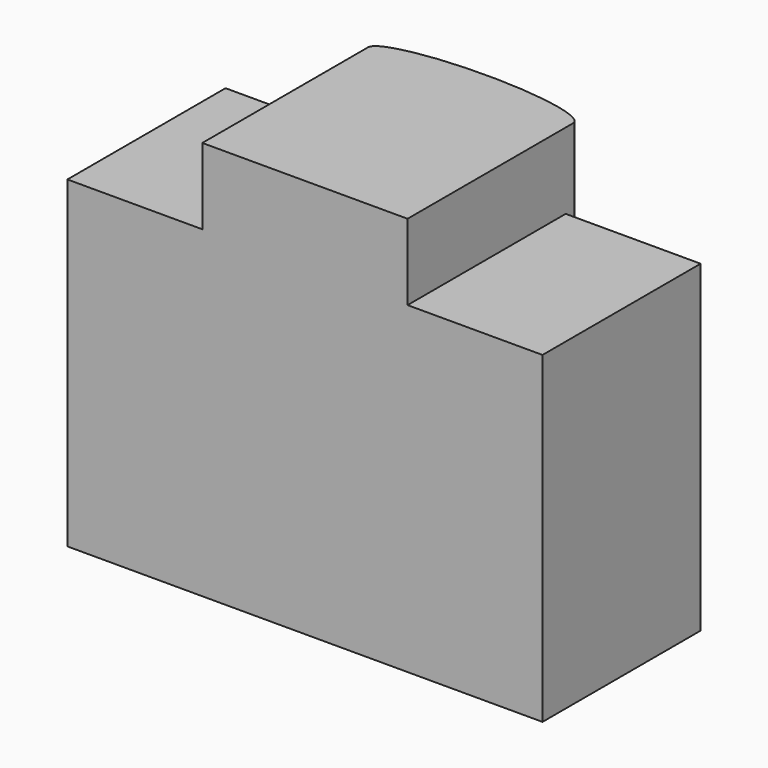
from build123d import *

# Parameters (mm, degrees)
F1_DEPTH = 850
F3_DEPTH = 200


with BuildPart() as f1:
    # F0 (on Top) → F1 (new body)
    with BuildSketch(Plane.XY):
        with BuildLine():
            Line((0, 520), (0, 0))
            Line((0, 0), (1250, 0))
            Line((1250, 0), (1250, 520))
            Line((1250, 520), (895, 520))
            Line((895, 520), (895, 545))
            add(Edge.make_bspline(
                [(895, 545), (895, 600), (625, 600), (355, 600), (355, 545)],
                knots=[3.1415926536, 3.1415926536, 3.1415926536, 4.7123889804, 4.7123889804, 6.2831853072, 6.2831853072, 6.2831853072], degree=2, weights=[1, 0.7071067812, 1, 0.7071067812, 1]))
            Line((355, 545), (355, 520))
            Line((355, 520), (0, 520))
        make_face()
    extrude(amount=F1_DEPTH)

    # F2 (on face) → F3 (join)
    with BuildSketch(Plane.XY.offset(850)):
        with BuildLine():
            Line((895, 520), (895, 545))
            add(Edge.make_bspline(
                [(895, 545), (895, 600), (625, 600), (355, 600), (355, 545)],
                knots=[3.1415926536, 3.1415926536, 3.1415926536, 4.7123889804, 4.7123889804, 6.2831853072, 6.2831853072, 6.2831853072], degree=2, weights=[1, 0.7071067812, 1, 0.7071067812, 1]))
            Line((355, 545), (355, 520))
            Line((355, 520), (355, 0))
            Line((355, 0), (895, 0))
            Line((895, 0), (895, 520))
        make_face()
    extrude(amount=F3_DEPTH)


solid = f1.part
